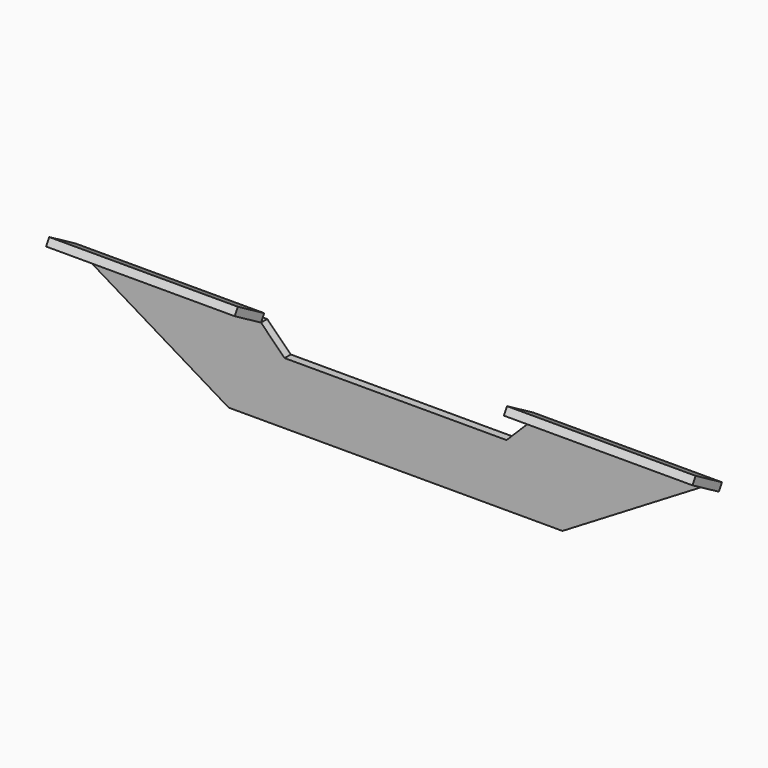
from build123d import *

# Parameters (mm, degrees)
F1_DEPTH = 3.175
F3_W     = 76.724223
F3_H     = 15.419518
F4_DEPTH = 3.175


with BuildPart() as f1:
    # F0 (on Front) → F1 (new body)
    with BuildSketch(Plane.XZ):
        Polygon((45.139141, 11.706416), (0, 11.706416), (-45.139141, 11.706416), (-54.727294, 21.294571), (-125.50962, 21.294571), (-67.878358, -13.426401), (0, -13.426401), (67.878358, -13.426401), (125.50962, 21.294571), (54.727294, 21.294571), align=None)
    extrude(amount=F1_DEPTH)


with BuildPart() as f4:
    # F3 (on face) → F4 (new body)
    with BuildSketch(Plane(origin=(0, 8.42707, 14.596113), x_dir=(1, 0, 0), z_dir=(0, -0.5, -0.866025))):
        with Locations((-93.089405, 21.106675)):
            Rectangle(F3_W, F3_H)
    extrude(amount=-F4_DEPTH)


with BuildPart() as f5_1:
    # F5: instance of F4
    add(f4.part.mirror(Plane.YZ))


solid = Compound([f1.part, f4.part, f5_1.part])
